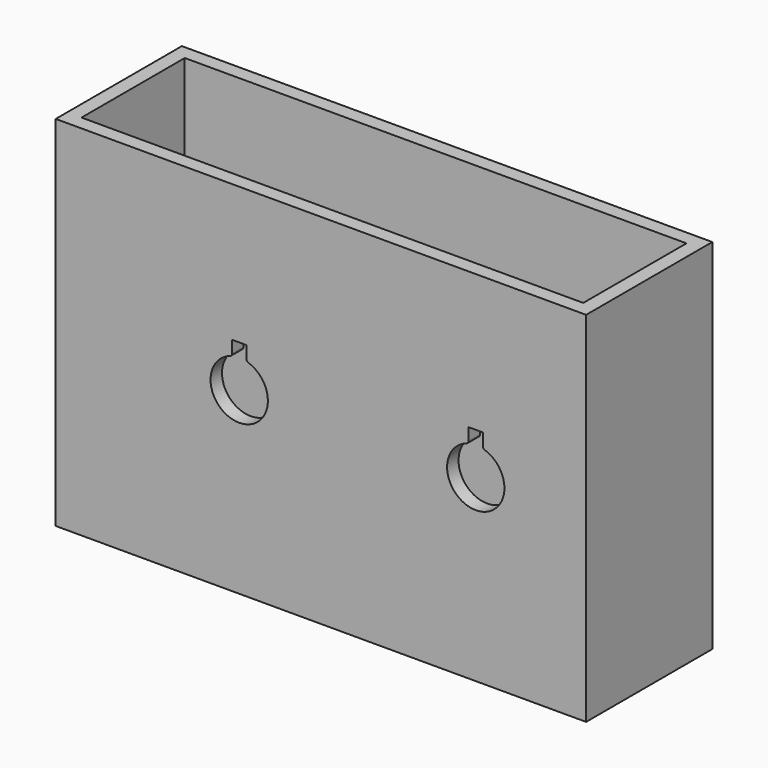
from build123d import *

# Parameters (mm, degrees)
F0_W     = 370
F0_H     = 250
F1_DEPTH = 55
F2_T     = -10


with BuildPart() as f1:
    # F0 (on Front) → F1 (new body, symmetric)
    with BuildSketch(Plane.XZ):
        with Locations((-58, 0)):
            Rectangle(F0_W, F0_H)
        with BuildLine():
            ThreePointArc((-108.636364, 18.960594), (-115, -20), (-121.363636, 18.960594))
            ThreePointArc((-121.363636, 18.960594), (-120.376312, 19.688905), (-120, 20.856654))
            Line((-120, 20.856654), (-120, 29.364917))
            Line((-120, 29.364917), (-110, 29.364917))
            Line((-110, 29.364917), (-110, 20.856654))
            ThreePointArc((-110, 20.856654), (-109.623688, 19.688905), (-108.636364, 18.960594))
        make_face(mode=Mode.SUBTRACT)
        with BuildLine():
            ThreePointArc((56.363636, 18.960594), (50, -20), (43.636364, 18.960594))
            ThreePointArc((43.636364, 18.960594), (44.623688, 19.688905), (45, 20.856654))
            Line((45, 20.856654), (45, 29.364917))
            Line((45, 29.364917), (55, 29.364917))
            Line((55, 29.364917), (55, 20.856654))
            ThreePointArc((55, 20.856654), (55.376312, 19.688905), (56.363636, 18.960594))
        make_face(mode=Mode.SUBTRACT)
    extrude(amount=F1_DEPTH, both=True)

    # F2
    f2_openings = [f1.faces().sort_by_distance(p)[0] for p in [
        (-58, 0, 125),
        (-115, 0, -20),
        (-120.376312, 0, 19.688905),
        (-120, 0, 25.110785),
        (-115, 0, 29.364917),
        (-110, 0, 25.110785),
        (-109.623688, 0, 19.688905),
        (50, 0, -20),
        (55.376312, 0, 19.688905),
        (55, 0, 25.110785),
        (50, 0, 29.364917),
        (45, 0, 25.110785),
        (44.623688, 0, 19.688905),
    ]]
    offset(amount=F2_T, openings=f2_openings)


solid = f1.part
